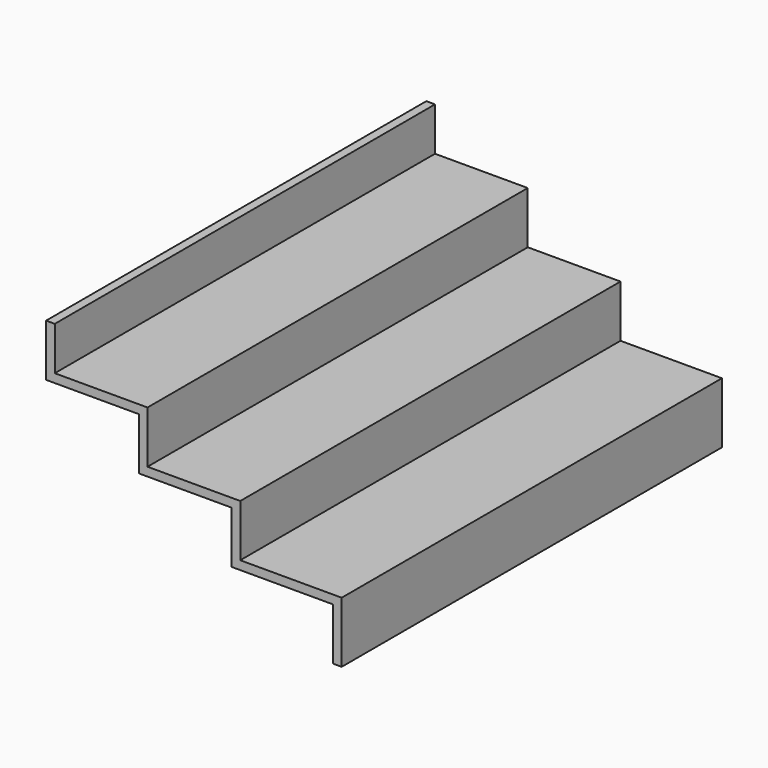
from build123d import *

# Parameters (mm, degrees)
F0_W      = 2082.8
F0_H      = 190.5
F0_H_2    = 38.1
F1_DEPTH  = 38.1
F2_DEPTH  = 444.5
F3_W      = 38.1
F3_H      = 2082.8
F4_DEPTH  = 266.7
F5_W      = 2082.8
F5_H      = 38.1
F6_DEPTH  = 444.5
F7_W      = 38.1
F7_H      = 2082.8
F8_DEPTH  = 266.7
F9_W      = 2082.8
F9_H      = 38.1
F10_DEPTH = 482.6
F11_W     = 38.1
F11_H     = 2082.8
F12_DEPTH = 266.7


with BuildPart() as f1:
    # F0 (on Right) → F1 (new body)
    with BuildSketch(Plane.YZ):
        with Locations((0, 19.05)):
            Rectangle(F0_W, F0_H)
        with Locations((0, -95.25)):
            Rectangle(F0_W, F0_H_2)
    extrude(amount=F1_DEPTH)

    # F0 (on Right) → F2 (join)
    with BuildSketch(Plane.YZ):
        with Locations((0, -95.25)):
            Rectangle(F0_W, F0_H_2)
    extrude(amount=F2_DEPTH)

    # F3 (on face) → F4 (join)
    with BuildSketch(Plane.XY.offset(-76.2)):
        with Locations((425.45, 0)):
            Rectangle(F3_W, F3_H)
    extrude(amount=-F4_DEPTH)

    # F5 (on face) → F6 (join)
    with BuildSketch(Plane(origin=(406.4, 0, 0), x_dir=(0, -1, 0), z_dir=(-1, 0, 0))):
        with Locations((0, -323.85)):
            Rectangle(F5_W, F5_H)
    extrude(amount=-F6_DEPTH)

    # F7 (on face) → F8 (join)
    with BuildSketch(Plane.XY.offset(-304.8)):
        with Locations((831.85, 0)):
            Rectangle(F7_W, F7_H)
    extrude(amount=-F8_DEPTH)

    # F9 (on face) → F10 (join)
    with BuildSketch(Plane(origin=(812.8, 0, 0), x_dir=(0, -1, 0), z_dir=(-1, 0, 0))):
        with Locations((0, -552.45)):
            Rectangle(F9_W, F9_H)
    extrude(amount=-F10_DEPTH)

    # F11 (on face) → F12 (join)
    with BuildSketch(Plane.XY.offset(-533.4)):
        with Locations((1276.35, 0)):
            Rectangle(F11_W, F11_H)
    extrude(amount=-F12_DEPTH)


solid = f1.part
